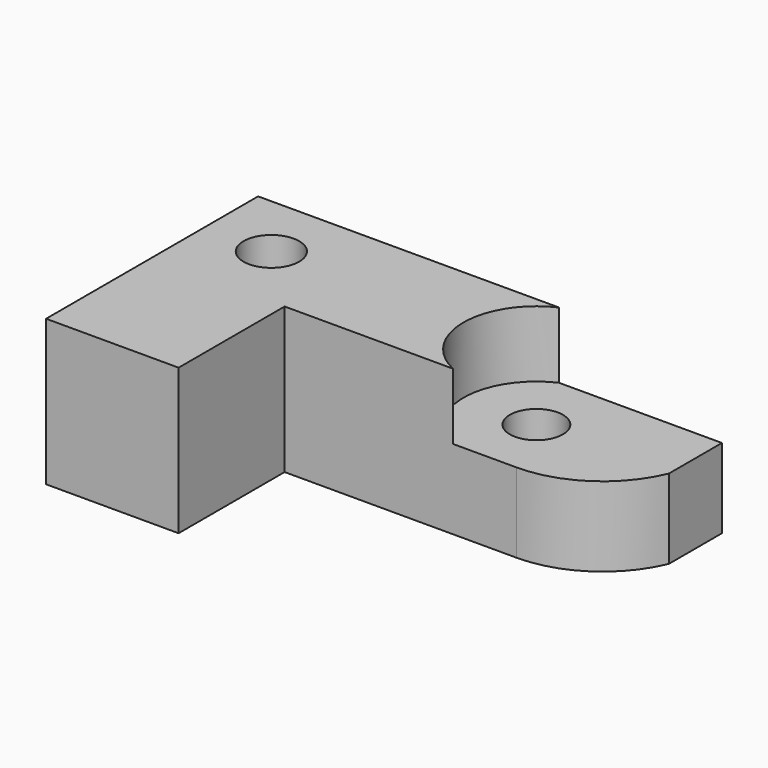
from build123d import *

# Parameters (mm, degrees)
PAD_DEPTH       = 22
SKETCH001_R     = 4
POCKET_DEPTH    = 20
POCKET001_DEPTH = 10
SKETCH002_R     = 4.2
POCKET002_DEPTH = 22


with BuildPart() as part:
    # Sketch → Pad (new body)
    with BuildSketch(Plane.XY):
        with BuildLine():
            Line((-10, 10), (60, 10))
            Line((60, 10), (60, 0))
            ThreePointArc((45, -10), (54.013878, -7.270817), (60, 0))
            Line((10, -10), (45, -10))
            Line((10, -30), (10, -10))
            Line((-10, -30), (10, -30))
            Line((-10, 10), (-10, -30))
        make_face()
    extrude(amount=PAD_DEPTH)

    # Sketch001 → Pocket (cut)
    with BuildSketch(Plane.XY):
        with Locations((40, 0)):
            Circle(SKETCH001_R)
    extrude(amount=POCKET_DEPTH, mode=Mode.SUBTRACT)

    # Sketch004 → Pocket001 (cut)
    with BuildSketch(Plane.XY.offset(22)):
        with BuildLine():
            ThreePointArc((40, 11), (29, 0), (40, -11))
            Line((40, -11), (45, -11))
            ThreePointArc((45, -11), (54.340905, -7.958424), (60.1, 0))
            Line((60.1, 11), (60.1, 0))
            Line((40, 11), (60.1, 11))
        make_face()
    extrude(amount=-POCKET001_DEPTH, mode=Mode.SUBTRACT)

    # Sketch002 → Pocket002 (cut)
    with BuildSketch(Plane.XY):
        Circle(SKETCH002_R)
    extrude(amount=POCKET002_DEPTH, mode=Mode.SUBTRACT)


solid = part.part
